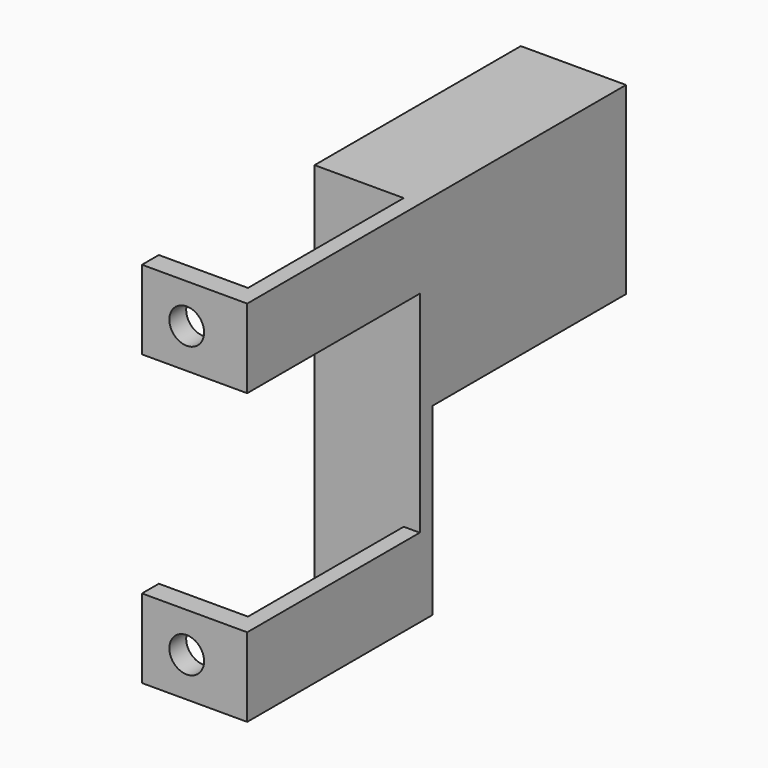
from build123d import *

# Parameters (mm, degrees)
SKETCH004_W  = 43
SKETCH004_H  = 29
PAD004_DEPTH = 2
SKETCH003_W  = 17
SKETCH003_H  = 37
PAD003_DEPTH = 70
SKETCH001_W  = 41
SKETCH001_H  = 40
PAD001_DEPTH = 20
SKETCH002_W  = 46
SKETCH002_H  = 35
PAD002_DEPTH = 20
SKETCH_W     = 90
SKETCH_H     = 70
PAD_DEPTH    = 20
SKETCH005_R  = 3.3
HOLE_DEPTH   = 4.001


with BuildPart() as body004:
    # Sketch004 (on Face1 of CopyPad003) → Pad004 (new body)
    with BuildSketch(Plane(origin=(-0.05496, 0, 0), x_dir=(0, -1, 0), z_dir=(-1, 0, 0))):
        with Locations((-65.5, 52.5)):
            Rectangle(SKETCH004_W, SKETCH004_H)
    extrude(amount=-PAD004_DEPTH)


with BuildPart() as body003:
    # Sketch003 (on Face1 of CopyPad002) → Pad003 (new body)
    with BuildSketch(Plane(origin=(0, 0, 0), x_dir=(1, 0, 0), z_dir=(0, 0, -1))):
        with Locations((8.44504, -22.5)):
            Rectangle(SKETCH003_W, SKETCH003_H)
    extrude(amount=-PAD003_DEPTH)


with BuildPart() as body001:
    # Sketch001 (on Face1 of CopyPad) → Pad001 (new body)
    with BuildSketch(Plane(origin=(0, 0, 0), x_dir=(0, -1, 0), z_dir=(-1, 0, 0))):
        with Locations((-20.5, 35)):
            Rectangle(SKETCH001_W, SKETCH001_H)
    extrude(amount=-PAD001_DEPTH)


with BuildPart() as body002:
    # Sketch002 (on Face1 of CopyPad001) → Pad002 (new body)
    with BuildSketch(Plane(origin=(0, 0, 0), x_dir=(0, -1, 0), z_dir=(-1, 0, 0))):
        with Locations((-67, 17.5)):
            Rectangle(SKETCH002_W, SKETCH002_H)
    extrude(amount=-PAD002_DEPTH)


with BuildPart() as body:
    # Sketch → Pad (new body)
    with BuildSketch(Plane.YZ):
        with Locations((45, 35)):
            Rectangle(SKETCH_W, SKETCH_H)
    extrude(amount=PAD_DEPTH)

    # Boolean: cut Body004, Body003, Body001, Body002
    add(body004.part, mode=Mode.SUBTRACT)
    add(body003.part, mode=Mode.SUBTRACT)
    add(body001.part, mode=Mode.SUBTRACT)
    add(body002.part, mode=Mode.SUBTRACT)

    # Sketch005 (on Face24 of Boolean) → Hole (cut, through all)
    with BuildSketch(Plane(origin=(0, 4, 0), x_dir=(-1, 0, 0), z_dir=(0, 1, 0))):
        with Locations((-8.5, 7.5)):
            Circle(SKETCH005_R)
        with Locations((-8.5, 62.5)):
            Circle(SKETCH005_R)
    extrude(amount=-HOLE_DEPTH, mode=Mode.SUBTRACT)


solid = body.part
